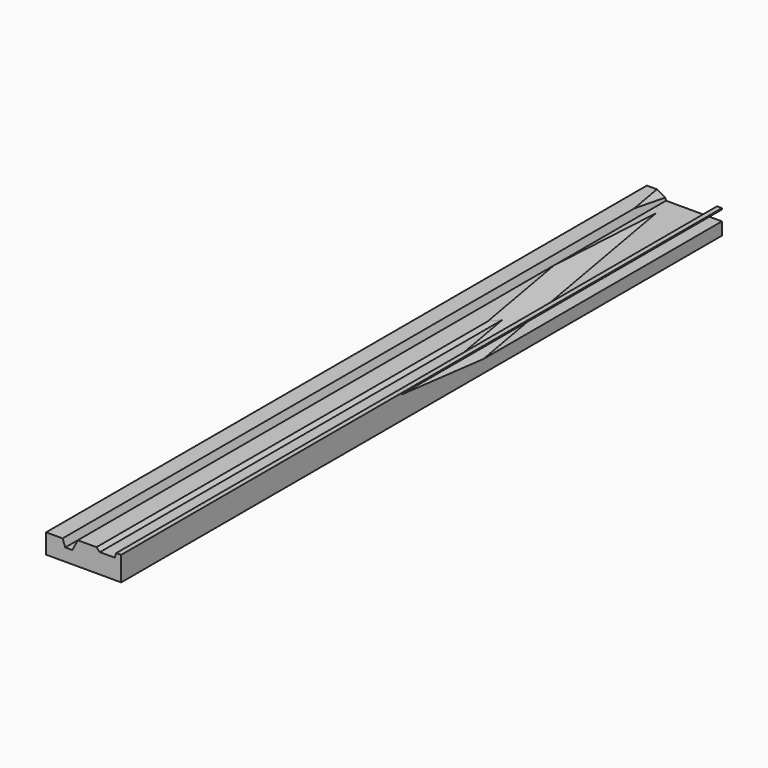
from build123d import *

# Parameters (mm, degrees)
F0_W          = 250
F0_H          = 88
F1_DEPTH      = 2500
F3_DEPTH      = 2500.001
F7_DEPTH      = 2492.408814
F7_DEPTH_BACK = 25


with BuildPart() as f1:
    # F0 (on Front) → F1 (new body)
    with BuildSketch(Plane.XZ):
        with Locations((125, 44)):
            Rectangle(F0_W, F0_H)
    extrude(amount=F1_DEPTH)

    # F2 (on Front) → F3 (cut, through all)
    with BuildSketch(Plane.XZ):
        Polygon((-6.027462, 133.504351), (-6.027462, 65.639846), (54.952722, 65.639846), (63.961156, 42.079318), (87.521672, 42.079318), (105.538554, 76.727152), (167.904645, 76.727152), (178.991958, 65.639846), (228.191867, 65.639846), (233.735517, 80.884889), (266.304493, 80.884889), (266.304493, 133.504351), align=None)
    extrude(amount=F3_DEPTH, mode=Mode.SUBTRACT)

    # F6 (on face) → F7 (cut, two sides)
    with BuildSketch(Plane(origin=(2.261527, -12.825755, 0), x_dir=(0.984808, 0.173648, 0), z_dir=(0.173648, -0.984808, 0))) as f7_sk:
        Polygon((13.848773, 76.727152), (73.860581, 42.079318), (295.860581, 42.079318), (295.860581, 76.727152), align=None)
    extrude(amount=F7_DEPTH, mode=Mode.SUBTRACT)
    extrude(f7_sk.sketch, amount=-F7_DEPTH_BACK, mode=Mode.SUBTRACT)


solid = f1.part
